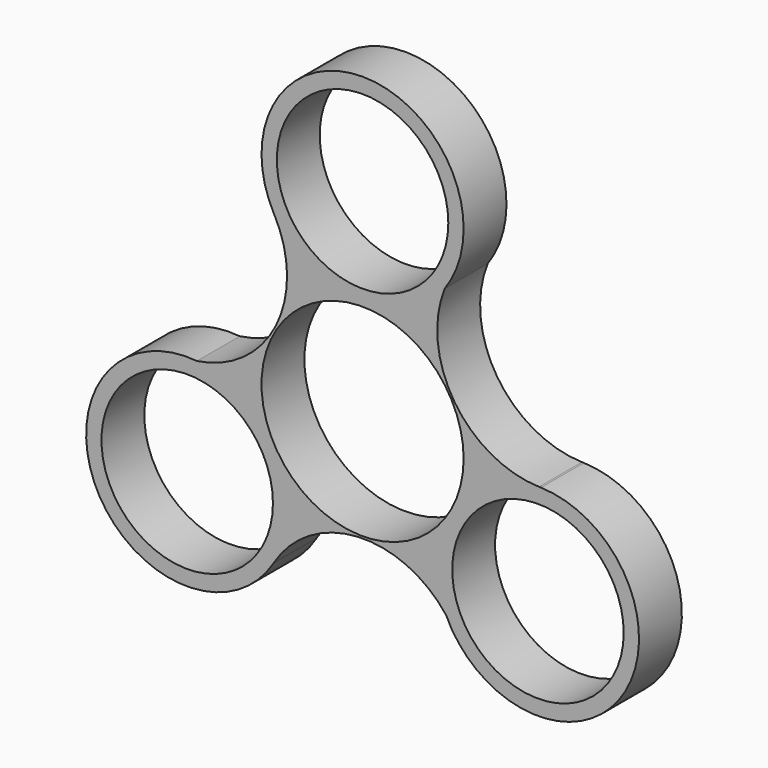
from build123d import *

# Parameters (mm, degrees)
F0_R     = 11.2
F0_R_2   = 13.2
F1_DEPTH = 7


with BuildPart() as f1:
    # F0 (on Front) → F1 (new body)
    with BuildSketch(Plane.XZ):
        with BuildLine():
            ThreePointArc((23.061854, -0.027782), (11.996839, 6.163675), (10.740783, 18.780768))
            ThreePointArc((10.740783, 18.780768), (0.834284, 39.627419), (-11.622956, 20.197061))
            ThreePointArc((-11.622956, 20.197061), (-11.564448, 20.091807), (-11.506867, 19.986043))
            ThreePointArc((-11.506867, 19.986043), (-11.336318, 7.30773), (-21.635013, -0.088593))
            ThreePointArc((-21.635013, -0.088593), (-34.735493, -19.091199), (-11.67969, -20.164305))
            ThreePointArc((-11.67969, -20.164305), (-11.617791, -20.061009), (-11.554987, -19.958261))
            ThreePointArc((-11.554987, -19.958261), (-0.660521, -13.471405), (10.89423, -18.692175))
            ThreePointArc((10.89423, -18.692175), (33.90121, -20.53622), (23.302646, -0.032756))
            ThreePointArc((23.302646, -0.032756), (23.182239, -0.030798), (23.061854, -0.027782))
        make_face()
        with Locations((-22.909671, -13.226905)):
            Circle(F0_R, mode=Mode.SUBTRACT)
        with Locations((22.909671, -13.226905)):
            Circle(F0_R, mode=Mode.SUBTRACT)
        Circle(F0_R_2, mode=Mode.SUBTRACT)
        with Locations((0, 26.45381)):
            Circle(F0_R, mode=Mode.SUBTRACT)
        with BuildLine():
            ThreePointArc((-11.506867, 19.986043), (-11.564448, 20.091807), (-11.622956, 20.197061))
            ThreePointArc((-11.622956, 20.197061), (-11.565393, 20.091287), (-11.506867, 19.986043))
        make_face()
        with BuildLine():
            ThreePointArc((23.302646, -0.032756), (23.182261, -0.02972), (23.061854, -0.027782))
            ThreePointArc((23.061854, -0.027782), (23.182239, -0.030798), (23.302646, -0.032756))
        make_face()
        with BuildLine():
            ThreePointArc((-11.554987, -19.958261), (-11.617791, -20.061009), (-11.67969, -20.164305))
            ThreePointArc((-11.67969, -20.164305), (-11.616869, -20.061567), (-11.554987, -19.958261))
        make_face()
    extrude(amount=F1_DEPTH)


solid = f1.part
